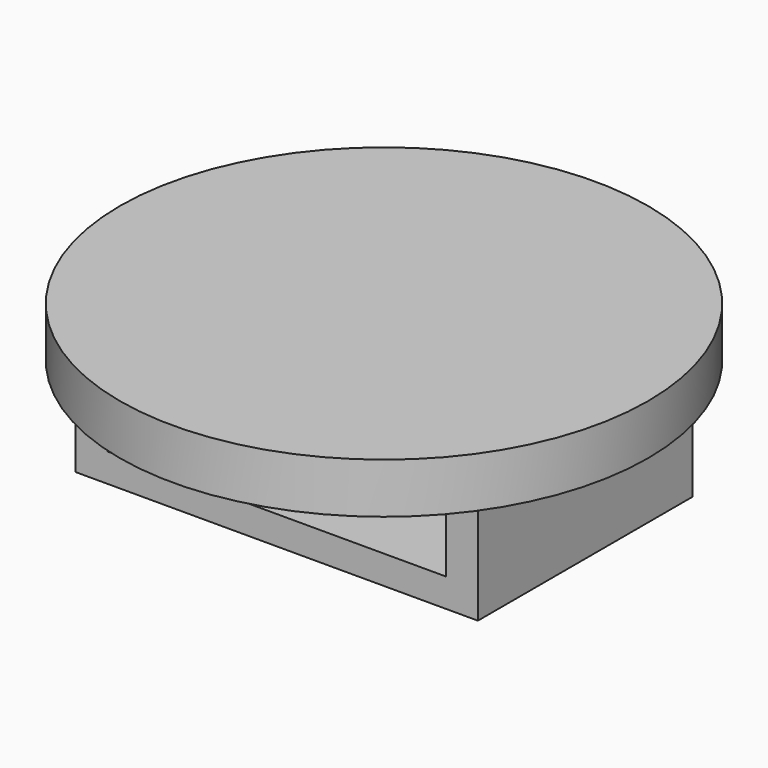
from build123d import *

# Parameters (mm, degrees)
F0_W     = 12
F0_H     = 4
F0_W_2   = 10.1
F0_H_2   = 2.45
F1_DEPTH = 4
F2_R     = 7.876348
F3_DEPTH = 0.75


with BuildPart() as f1:
    # F0 (on Front) → F1 (new body, symmetric)
    with BuildSketch(Plane.XZ):
        with Locations((0, -2)):
            Rectangle(F0_W, F0_H)
        with Locations((0, -1.925)):
            Rectangle(F0_W_2, F0_H_2, mode=Mode.SUBTRACT)
    extrude(amount=F1_DEPTH, both=True)

    # F2 (on Top) → F3 (join, symmetric)
    with BuildSketch(Plane.XY):
        Circle(F2_R)
    extrude(amount=F3_DEPTH, both=True)


solid = f1.part
